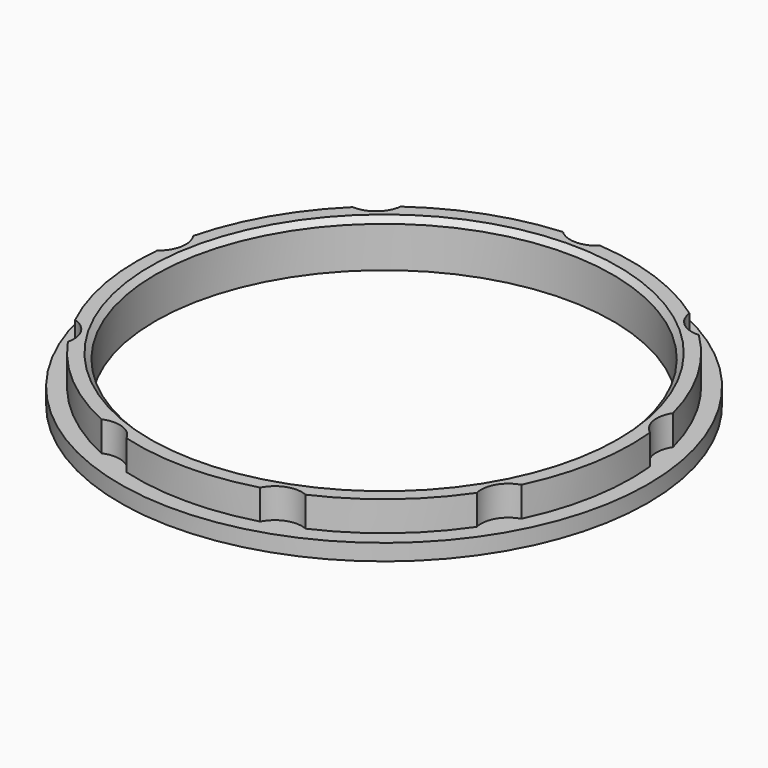
from build123d import *

# Parameters (mm, degrees)
SKETCH_R      = 48.5
SKETCH_R_2    = 42
PAD_DEPTH     = 3
SKETCH001_R   = 45.5
SKETCH001_R_2 = 42
PAD001_DEPTH  = 5.5
CHAMFER_SIZE  = 1
SKETCH002_R   = 5
POCKET_DEPTH  = 5.501


with BuildPart() as part:
    # Sketch → Pad (new body)
    with BuildSketch(Plane.XY):
        Circle(SKETCH_R)
        Circle(SKETCH_R_2, mode=Mode.SUBTRACT)
    extrude(amount=PAD_DEPTH)

    # Sketch001 (on Face4 of Pad) → Pad001 (join)
    with BuildSketch(Plane.XY.offset(3)):
        Circle(SKETCH001_R)
        Circle(SKETCH001_R_2, mode=Mode.SUBTRACT)
    extrude(amount=PAD001_DEPTH)

    # Chamfer
    chamfer_edges = [part.edges().sort_by_distance(p)[0] for p in [
        (-42, 0, 8.5),
    ]]
    chamfer(chamfer_edges, length=CHAMFER_SIZE)

    # Sketch002 → Pocket (cut, through all)
    with BuildSketch(Plane.XY.offset(3)):
        with Locations((31.496593, 37.536178)):
            Circle(SKETCH002_R)
        with Locations((48.25558, 8.508761)):
            Circle(SKETCH002_R)
        with Locations((42.435245, -24.5)):
            Circle(SKETCH002_R)
        with Locations((16.758987, -46.044938)):
            Circle(SKETCH002_R)
        with Locations((-16.758987, -46.044938)):
            Circle(SKETCH002_R)
        with Locations((-42.435245, -24.5)):
            Circle(SKETCH002_R)
        with Locations((-48.25558, 8.508761)):
            Circle(SKETCH002_R)
        with Locations((-31.496593, 37.536178)):
            Circle(SKETCH002_R)
        with Locations((0, 49)):
            Circle(SKETCH002_R)
    extrude(amount=POCKET_DEPTH, mode=Mode.SUBTRACT)


solid = part.part
